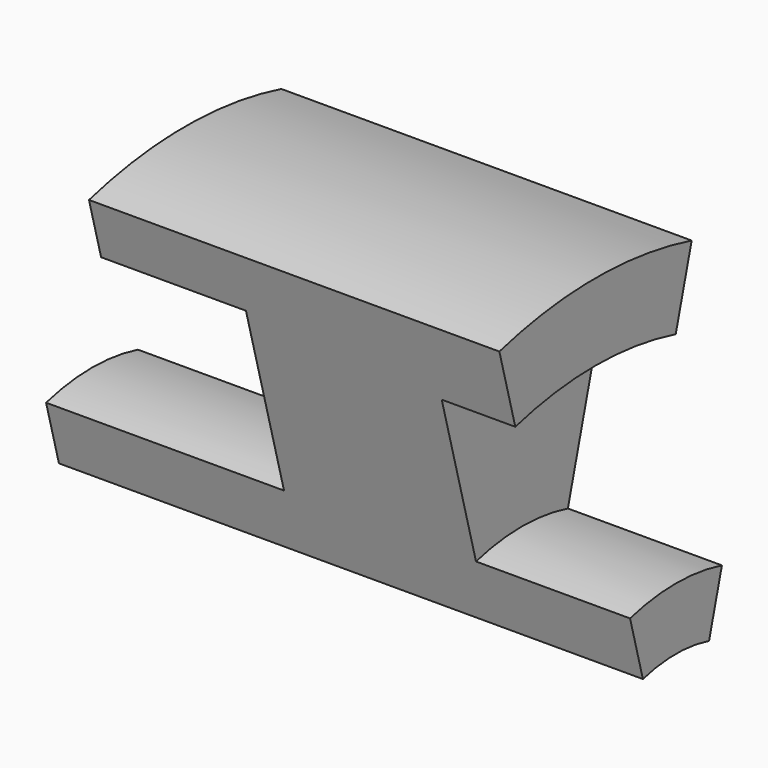
from build123d import *

# Parameters (mm, degrees)
F1_ANGLE = 30


with BuildPart() as f1:
    # F0 (on Front) → F1 (revolve, symmetric)
    with BuildSketch(Plane.XZ) as f1_sk:
        Polygon((-38.094878, 28.946124), (-38.094878, 20.847209), (38.094878, 20.847209), (38.094878, 28.946124), (17.997593, 28.946124), (17.997593, 50.543226), (27.596295, 50.543226), (27.596295, 60.591869), (-25.946513, 60.591869), (-25.946513, 52.942902), (-7.049054, 52.942902), (-7.049054, 28.946124), align=None)
    revolve(axis=Axis((1.79977, 0, 0), (1, 0, 0)), revolution_arc=F1_ANGLE / 2)
    revolve(f1_sk.sketch, axis=Axis((1.79977, 0, 0), (-1, 0, 0)), revolution_arc=F1_ANGLE / 2)


solid = f1.part
